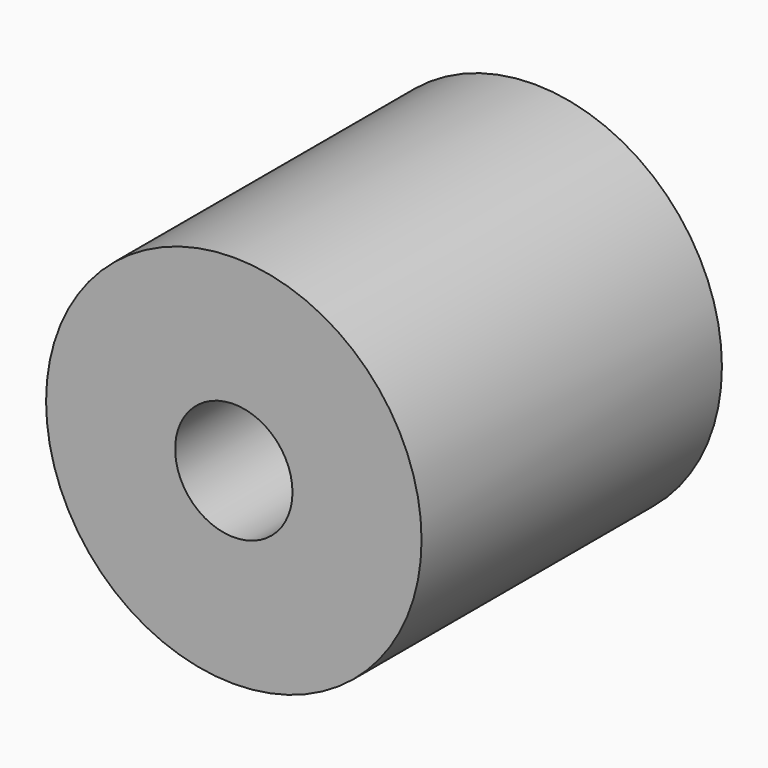
from build123d import *

# Parameters (mm, degrees)
SKETCH_W = 5.5
SKETCH_H = 16


with BuildPart() as part:
    # Sketch → Revolution (revolve)
    with BuildSketch(Plane.XY):
        with Locations((5.25, 8)):
            Rectangle(SKETCH_W, SKETCH_H)
    revolve(axis=Axis((0, 0, 0), (0, 1, 0)))


solid = part.part
